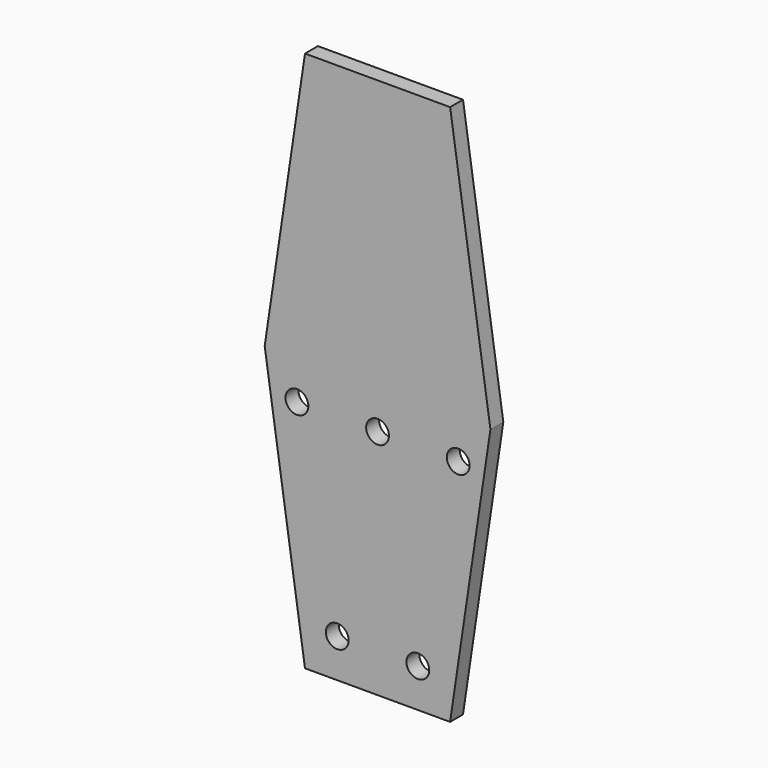
from build123d import *

# Parameters (mm, degrees)
F0_R     = 3.5941
F1_DEPTH = 5.08


with BuildPart() as f1:
    # F0 (on Front) → F1 (new body)
    with BuildSketch(Plane.XZ):
        Polygon((-55.358764, -45.511816), (-45.198764, -45.511816), (-19.798764, -45.511816), (-9.638764, -45.511816), (3.061236, 39.743538), (-9.638764, 124.998892), (-19.798764, 124.998892), (-45.198764, 124.998892), (-55.358764, 124.998892), (-68.058764, 39.743538), align=None)
        with Locations((-45.198764, -33.317022)):
            Circle(F0_R, mode=Mode.SUBTRACT)
        with Locations((-57.898764, 27.551538)):
            Circle(F0_R, mode=Mode.SUBTRACT)
        with Locations((-19.798764, -33.317022)):
            Circle(F0_R, mode=Mode.SUBTRACT)
        with Locations((-32.498764, 27.551538)):
            Circle(F0_R, mode=Mode.SUBTRACT)
        with Locations((-7.098764, 27.551538)):
            Circle(F0_R, mode=Mode.SUBTRACT)
    extrude(amount=F1_DEPTH)


solid = f1.part
